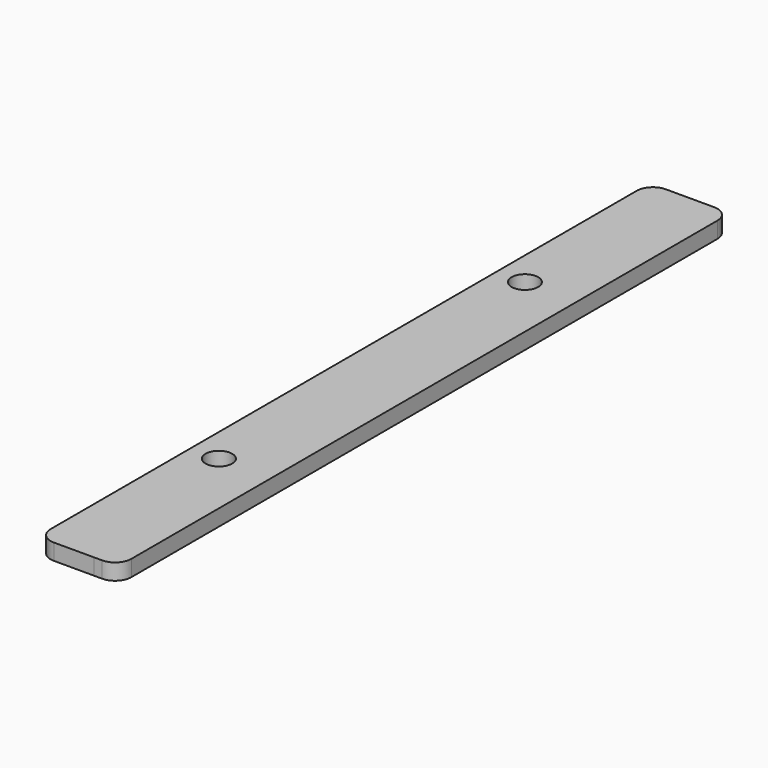
from build123d import *

# Parameters (mm, degrees)
SKETCH_R  = 1.651
PAD_DEPTH = 2


with BuildPart() as part:
    # Sketch → Pad (new body)
    with BuildSketch(Plane.XY):
        with BuildLine():
            Line((-3.5, 45.4), (-3.5, -45.4))
            ThreePointArc((-3.5, -45.4), (-2.914214, -46.814214), (-1.5, -47.4))
            Line((-1.5, -47.4), (1.5, -47.4))
            Line((1.5, -47.4), (3.5, -47.4))
            Line((4.499988, -47.400006), (3.5, -47.4))
            ThreePointArc((4.499988, -47.400006), (5.914209, -46.814224), (6.5, -45.400006))
            Line((6.5, 45.4), (6.5, -45.400006))
            ThreePointArc((6.5, 45.4), (5.914214, 46.814214), (4.5, 47.4))
            Line((3.5, 47.4), (4.5, 47.4))
            Line((1.5, 47.4), (3.5, 47.4))
            Line((1.5, 47.4), (-1.5, 47.4))
            ThreePointArc((-1.5, 47.4), (-2.914214, 46.814214), (-3.5, 45.4))
        make_face()
        with Locations((0, 23.7)):
            Circle(SKETCH_R, mode=Mode.SUBTRACT)
        with Locations((0, -23.7)):
            Circle(SKETCH_R, mode=Mode.SUBTRACT)
    extrude(amount=PAD_DEPTH)


solid = part.part
